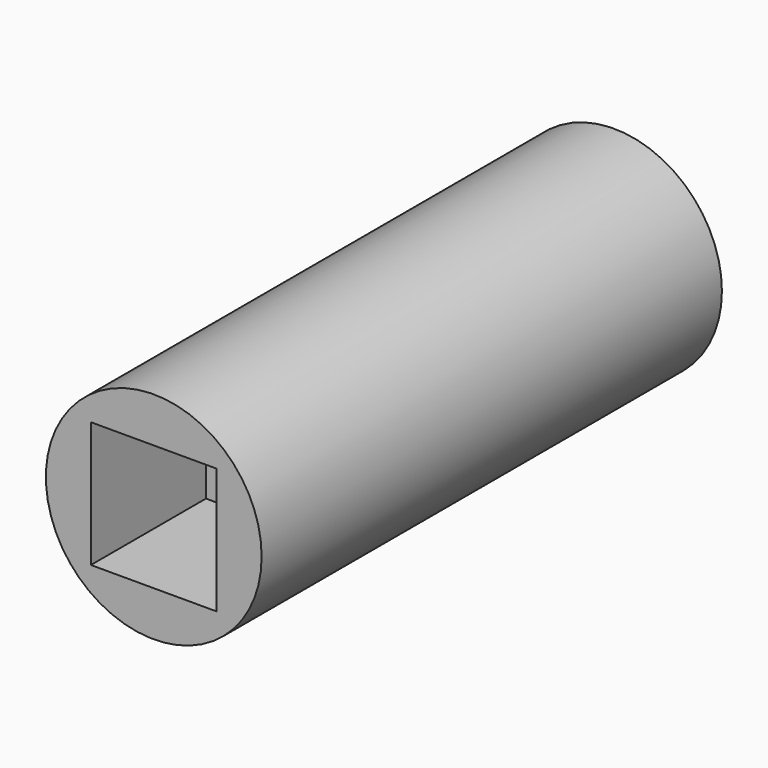
from build123d import *

# Parameters (mm, degrees)
F0_R      = 9.525
F1_DEPTH  = 25.4
F1_FACE_R = 9.525
F2_DEPTH  = 25.4
F4_DEPTH  = 50.801
F6_DEPTH  = 9.525
F7_W      = 11.0998
F7_H      = 11.0998
F8_DEPTH  = 12.7


with BuildPart() as f1:
    # F0 (on Front) → F1 (new body)
    with BuildSketch(Plane.XZ):
        Circle(F0_R)
    extrude(amount=F1_DEPTH)

    # F1_face (on face) → F2 (join)
    with BuildSketch(Plane.XZ.offset(25.4)):
        Circle(F1_FACE_R)
    extrude(amount=F2_DEPTH)

    # F3 (on Front) → F4 (cut, through all)
    with BuildSketch(Plane.XZ):
        with BuildLine():
            ThreePointArc((4.7625, 0), (3.367596, 3.367596), (0, 4.7625))
            ThreePointArc((0, 4.7625), (-3.367596, 3.367596), (-4.7625, 0))
            ThreePointArc((-4.7625, 0), (-3.367596, -3.367596), (0, -4.7625))
            ThreePointArc((0, -4.7625), (3.367596, -3.367596), (4.7625, 0))
        make_face()
    extrude(amount=F4_DEPTH, mode=Mode.SUBTRACT)

    # F5 (on face) → F6 (cut)
    with BuildSketch(Plane(origin=(0, 0, 0), x_dir=(-1, 0, 0), z_dir=(0, 1, 0))):
        Polygon((3.65125, 6.324151), (-3.65125, 6.324151), (-7.3025, 0), (-3.65125, -6.324151), (3.65125, -6.324151), (7.3025, 0), align=None)
    extrude(amount=-F6_DEPTH, mode=Mode.SUBTRACT)

    # F7 (on face) → F8 (cut)
    with BuildSketch(Plane.XZ.offset(50.8)):
        Rectangle(F7_W, F7_H)
    extrude(amount=-F8_DEPTH, mode=Mode.SUBTRACT)


solid = f1.part
